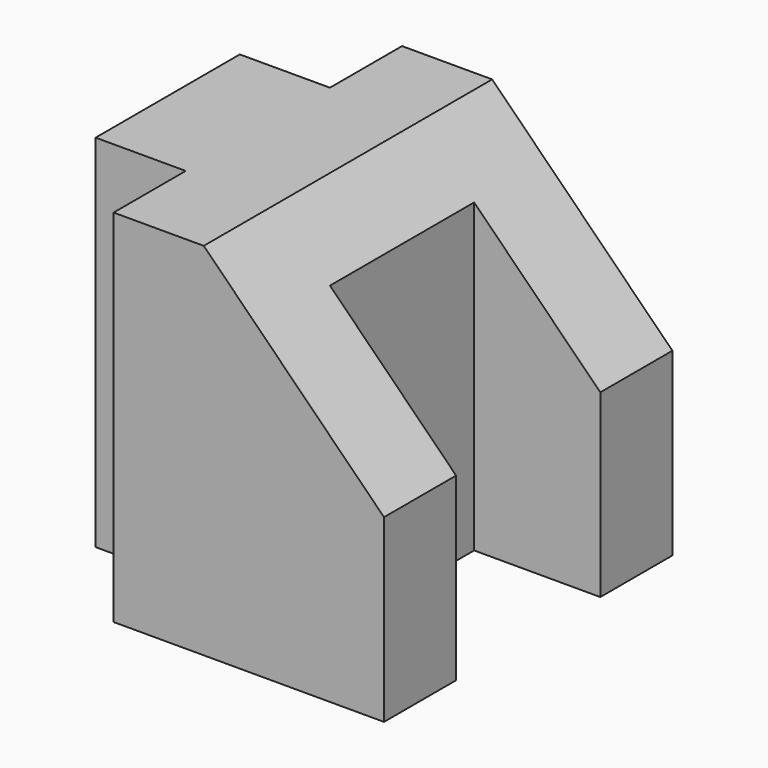
from build123d import *

# Parameters (mm, degrees)
F1_DEPTH = 50.8
F2_W     = 12.7
F2_H     = 12.7
F3_DEPTH = 50.801
F4_W     = 17.78
F4_H     = 25.4
F5_DEPTH = 50.801


with BuildPart() as f1:
    # F0 (on Front) → F1 (new body)
    with BuildSketch(Plane.XZ):
        Polygon((0, 50.8), (0, 0), (50.8, 0), (50.8, 25.4), (25.4, 50.8), align=None)
    extrude(amount=-F1_DEPTH)

    # F2 (on face) → F3 (cut, through all)
    with BuildSketch(Plane.XY.offset(50.8)):
        with Locations((6.35, 44.45)):
            Rectangle(F2_W, F2_H)
        with Locations((6.35, 6.35)):
            Rectangle(F2_W, F2_H)
    extrude(amount=-F3_DEPTH, mode=Mode.SUBTRACT)

    # F4 (on face) → F5 (cut, through all)
    with BuildSketch(Plane.XY.offset(50.8)):
        with Locations((41.91, 25.4)):
            Rectangle(F4_W, F4_H)
    extrude(amount=-F5_DEPTH, mode=Mode.SUBTRACT)


solid = f1.part
